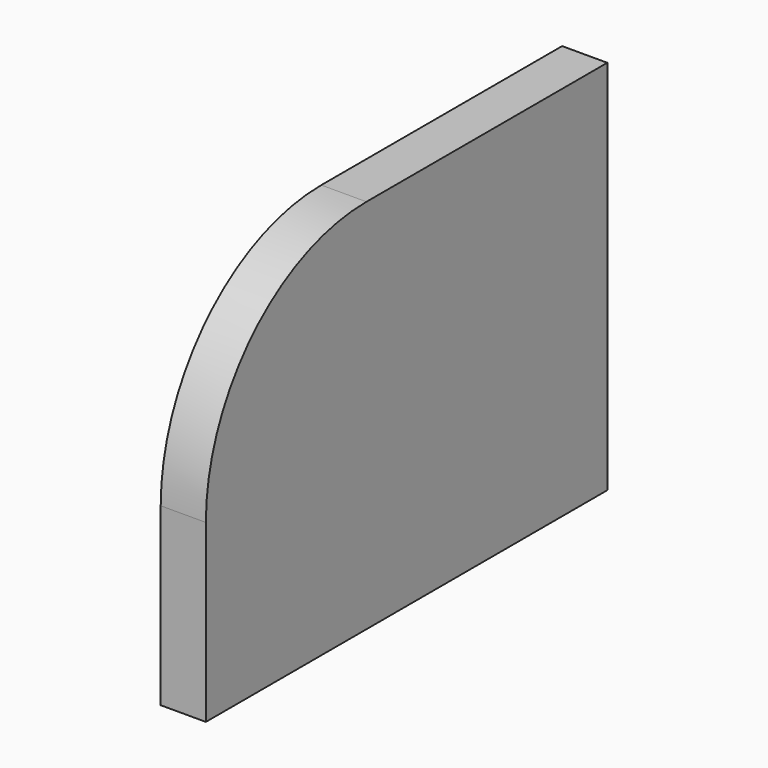
from build123d import *

# Parameters (mm, degrees)
F1_DEPTH = 18


with BuildPart() as f1:
    # F0 (on Right) → F1 (new body)
    with BuildSketch(Plane.YZ):
        with BuildLine():
            Line((0, 70), (0, 0))
            Line((0, 0), (200, 0))
            Line((200, 0), (200, 150))
            Line((200, 150), (80, 150))
            ThreePointArc((80, 150), (23.431458, 126.568542), (0, 70))
        make_face()
    extrude(amount=-F1_DEPTH)


solid = f1.part
